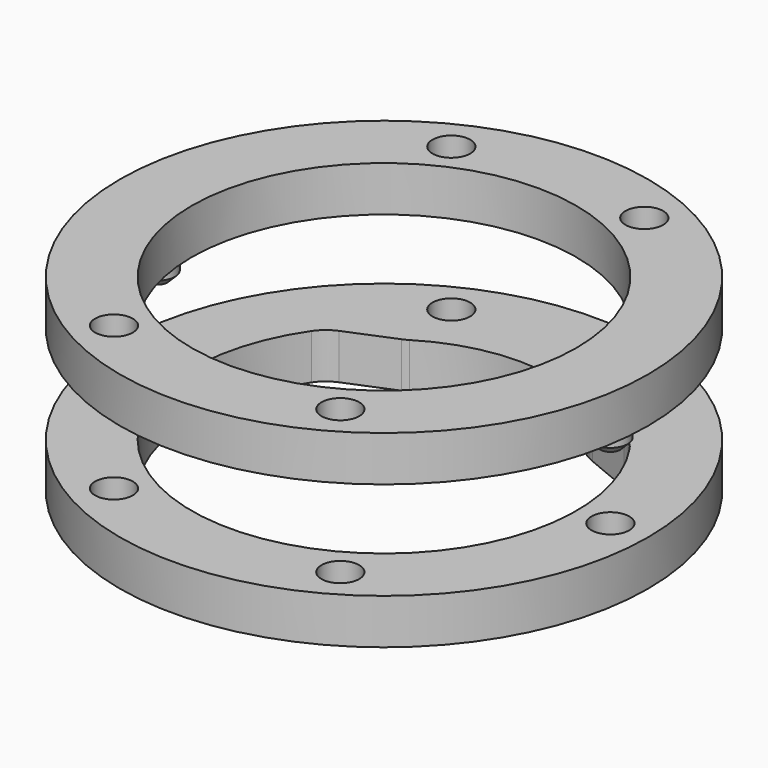
from build123d import *

# Parameters (mm, degrees)
F0_R     = 35
F0_R_2   = 2.5
F1_DEPTH = 6
F3_R     = 35
F3_R_2   = 2.5
F3_R_3   = 25.5
F4_DEPTH = 6
F5_R     = 2.3
F6_DEPTH = 4
F7_SIZE  = 1


with BuildPart() as f1:
    # F0 (on Top) → F1 (new body)
    with BuildSketch(Plane.XY):
        Circle(F0_R)
        with Locations((-15, -25.980762)):
            Circle(F0_R_2, mode=Mode.SUBTRACT)
        with Locations((15, -25.980762)):
            Circle(F0_R_2, mode=Mode.SUBTRACT)
        with BuildLine():
            ThreePointArc((21.093135, 14.329328), (0, -25.5), (-21.093135, 14.329328))
            ThreePointArc((-21.093135, 14.329328), (-20.113505, 15.39753), (-18.868656, 16.139877))
            Line((-18.868656, 16.139877), (-12.629017, 18.721275))
            ThreePointArc((-12.629017, 18.721275), (-12.255114, 18.894333), (-11.896729, 19.097587))
            ThreePointArc((-11.896729, 19.097587), (0, 22.5), (11.896729, 19.097587))
            ThreePointArc((11.896729, 19.097587), (12.255114, 18.894333), (12.629017, 18.721275))
            Line((12.629017, 18.721275), (18.868656, 16.139877))
            ThreePointArc((18.868656, 16.139877), (20.113505, 15.39753), (21.093135, 14.329328))
        make_face(mode=Mode.SUBTRACT)
        with Locations((-30, 0)):
            Circle(F0_R_2, mode=Mode.SUBTRACT)
        with Locations((-12.784733, 27.139466)):
            Circle(F0_R_2, mode=Mode.SUBTRACT)
        with Locations((30, 0)):
            Circle(F0_R_2, mode=Mode.SUBTRACT)
        with Locations((12.784733, 27.139466)):
            Circle(F0_R_2, mode=Mode.SUBTRACT)
    extrude(amount=F1_DEPTH)


with BuildPart() as f4:
    # F3 (on offset) → F4 (new body)
    with BuildSketch(Plane.XY.offset(25)):
        Circle(F3_R)
        with Locations((-15, -25.980762)):
            Circle(F3_R_2, mode=Mode.SUBTRACT)
        with Locations((15, -25.980762)):
            Circle(F3_R_2, mode=Mode.SUBTRACT)
        with Locations((-12.784733, 27.139466)):
            Circle(F3_R_2, mode=Mode.SUBTRACT)
        Circle(F3_R_3, mode=Mode.SUBTRACT)
        with Locations((12.784733, 27.139466)):
            Circle(F3_R_2, mode=Mode.SUBTRACT)
    extrude(amount=-F4_DEPTH)

    # F5 (on face) → F6 (join)
    with BuildSketch(Plane(origin=(0, 0, 19), x_dir=(1, 0, 0), z_dir=(0, 0, -1))):
        with Locations((-30, 0)):
            Circle(F5_R)
        with Locations((30, 0)):
            Circle(F5_R)
    extrude(amount=F6_DEPTH)

    # F7
    f7_edges = [f4.edges().sort_by_distance(p)[0] for p in [
        (-32.3, 0, 15),
        (27.7, 0, 15),
    ]]
    chamfer(f7_edges, length=F7_SIZE)


solid = Compound([f1.part, f4.part])
